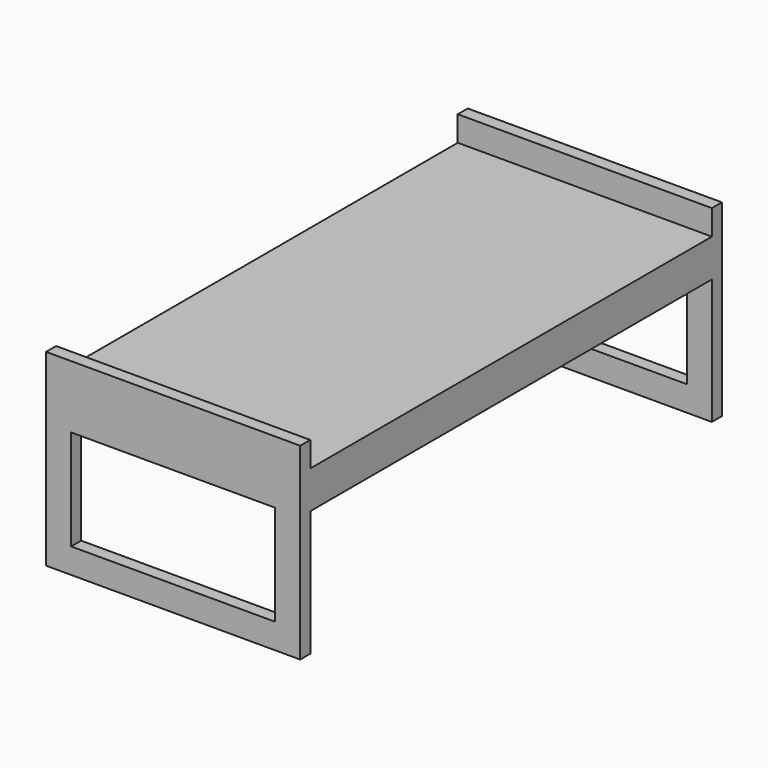
from build123d import *

# Parameters (mm, degrees)
SKETCH_W        = 1028.7
SKETCH_H        = 762
PAD_DEPTH       = 2133.6
SKETCH001_W     = 825.5
SKETCH001_H     = 406.4
POCKET_DEPTH    = 2133.601
SKETCH002_W     = 507.999996
SKETCH002_H     = 2032
POCKET001_DEPTH = 1028.701
SKETCH003_W     = 101.600004
SKETCH003_H     = 2032
POCKET002_DEPTH = 1028.701


with BuildPart() as part:
    # Sketch → Pad (new body)
    with BuildSketch(Plane.XZ):
        Rectangle(SKETCH_W, SKETCH_H)
    extrude(amount=PAD_DEPTH)

    # Sketch001 → Pocket (cut, through all)
    with BuildSketch(Plane(origin=(0, -2133.6, 0), x_dir=(1, 0, 0), z_dir=(0, -1, 0))):
        with Locations((0, -76.2)):
            Rectangle(SKETCH001_W, SKETCH001_H)
    extrude(amount=-POCKET_DEPTH, mode=Mode.SUBTRACT)

    # Sketch002 → Pocket001 (cut, through all)
    with BuildSketch(Plane(origin=(514.35, 0, 0), x_dir=(0, 0, 1), z_dir=(1, 0, 0))):
        with Locations((-127.000002, 1066.8)):
            Rectangle(SKETCH002_W, SKETCH002_H)
    extrude(amount=-POCKET001_DEPTH, mode=Mode.SUBTRACT)

    # Sketch003 → Pocket002 (cut, through all)
    with BuildSketch(Plane(origin=(514.35, 0, 0), x_dir=(0, 0, 1), z_dir=(1, 0, 0))):
        with Locations((330.199998, 1066.8)):
            Rectangle(SKETCH003_W, SKETCH003_H)
    extrude(amount=-POCKET002_DEPTH, mode=Mode.SUBTRACT)


solid = part.part
